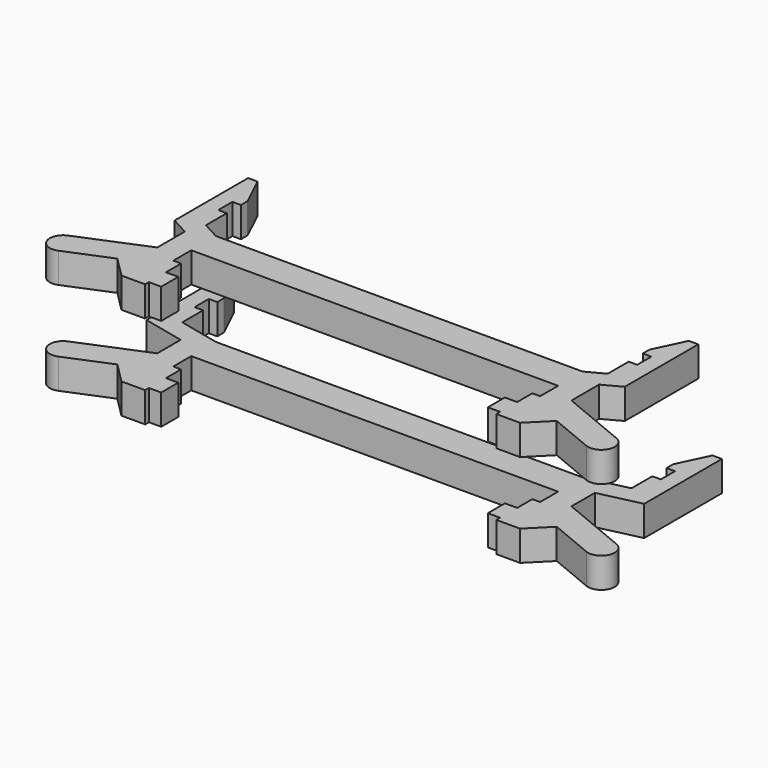
from build123d import *

# Parameters (mm, degrees)
F3_DEPTH = 3.2385


with BuildPart() as f3:
    # F0 (on Top) + F2 (on offset) → F3 (new body)
    with BuildSketch(Plane.XY):
        with BuildLine():
            Line((19.685, 1.651), (0, 1.651))
            Line((0, 1.651), (0, -1.651))
            Line((0, -1.651), (19.685, -1.651))
            Line((19.685, -1.651), (19.685, -4.064))
            Line((19.685, -4.064), (18.8468, -4.064))
            Line((18.8468, -4.064), (18.8468, -6.096))
            Line((18.8468, -6.096), (17.526, -6.096))
            Line((17.526, -6.096), (17.526, -8.382))
            Line((17.526, -8.382), (18.8468, -8.382))
            Line((18.8468, -8.382), (18.8468, -8.89))
            Line((18.8468, -8.89), (21.3868, -8.89))
            Line((21.3868, -8.89), (23.574448, -6.702352))
            Line((23.574448, -6.702352), (28.325768, -8.670413))
            ThreePointArc((28.325768, -8.670413), (30.200817, -7.893743), (29.424146, -6.018694))
            Line((29.424146, -6.018694), (22.225, -3.03671))
            Line((22.225, -3.03671), (22.225, -1.651))
            Line((22.225, -1.651), (22.225, 0.097782))
            Line((22.225, 0.097782), (26.6954, 1.12546))
            Line((26.6954, 1.12546), (26.6954, 2.667))
            Line((26.6954, 2.667), (26.6954, 11.557))
            Line((26.6954, 11.557), (25.6794, 11.557))
            Line((25.6794, 11.557), (24.1046, 8.255))
            Line((24.1046, 8.255), (24.1046, 7.366))
            Line((24.1046, 7.366), (25.019, 7.366))
            Line((25.019, 7.366), (25.019, 5.461))
            Line((25.019, 5.461), (24.1046, 5.461))
            Line((24.1046, 5.461), (24.1046, 2.667))
            Line((24.1046, 2.667), (19.685, 1.651))
        make_face()
    with BuildSketch(Plane.XY.offset(10)):
        with BuildLine():
            Line((19.685, 1.651), (0, 1.651))
            Line((0, 1.651), (0, -1.651))
            Line((0, -1.651), (19.685, -1.651))
            Line((19.685, -1.651), (19.685, -4.064))
            Line((19.685, -4.064), (18.8468, -4.064))
            Line((18.8468, -4.064), (18.8468, -6.096))
            Line((18.8468, -6.096), (17.526, -6.096))
            Line((17.526, -6.096), (17.526, -8.382))
            Line((17.526, -8.382), (18.8468, -8.382))
            Line((18.8468, -8.382), (18.8468, -8.89))
            Line((18.8468, -8.89), (21.3868, -8.89))
            Line((21.3868, -8.89), (23.574448, -6.702352))
            Line((23.574448, -6.702352), (28.325768, -8.670413))
            ThreePointArc((28.325768, -8.670413), (30.200817, -7.893743), (29.424146, -6.018694))
            Line((29.424146, -6.018694), (22.225, -3.03671))
            Line((22.225, -3.03671), (22.225, -1.651))
            Line((22.225, -1.651), (22.225, 0.656365))
            Line((22.225, 0.656365), (24.1554, 1.699825))
            Line((24.1554, 1.699825), (24.1554, 2.667))
            Line((24.1554, 2.667), (24.1554, 11.557))
            Line((24.1554, 11.557), (23.1394, 11.557))
            Line((23.1394, 11.557), (21.5646, 8.255))
            Line((21.5646, 8.255), (21.5646, 7.366))
            Line((21.5646, 7.366), (22.479, 7.366))
            Line((22.479, 7.366), (22.479, 5.461))
            Line((22.479, 5.461), (21.5646, 5.461))
            Line((21.5646, 5.461), (21.5646, 2.667))
            Line((21.5646, 2.667), (19.685, 1.651))
        make_face()
    extrude(amount=F3_DEPTH)

    # F4: F3 across plane


with BuildPart() as f3_1:
    add(f3.part)
    add(f3.part.mirror(Plane.YZ))


solid = f3_1.part
